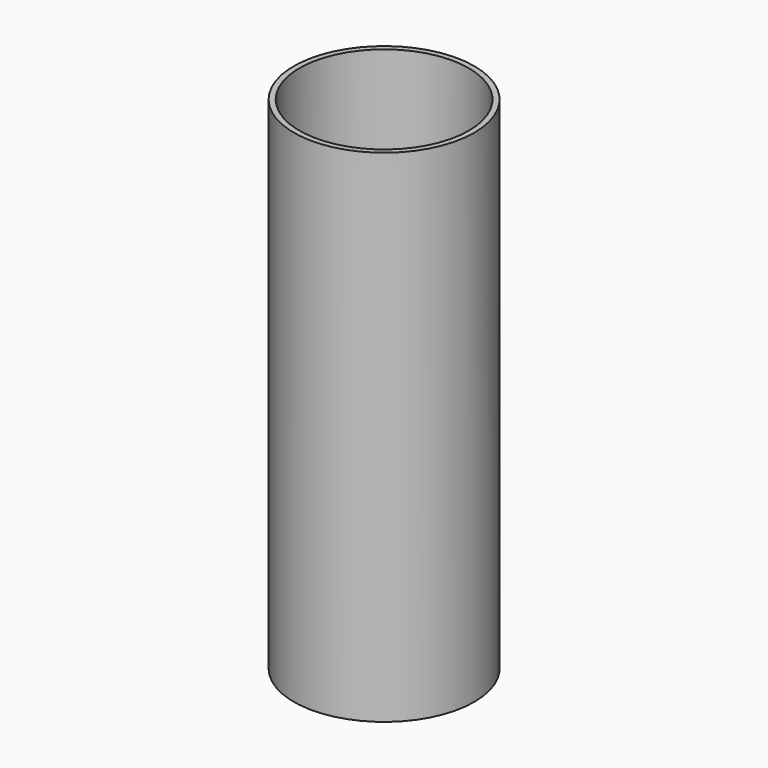
from build123d import *

# Parameters (mm, degrees)
F1_R     = 41.486578
F2_DEPTH = 230.425598
F3_T     = -2.54


with BuildPart() as f2:
    # F1 (on face) → F2 (new body)
    with BuildSketch(Plane.XY):
        with Locations((3.123068, 20.641114)):
            Circle(F1_R)
    extrude(amount=F2_DEPTH)

    # F3
    f3_openings = [f2.faces().sort_by_distance(p)[0] for p in [
        (3.123068, 20.641114, 230.425598),
    ]]
    offset(amount=F3_T, openings=f3_openings)


solid = f2.part
